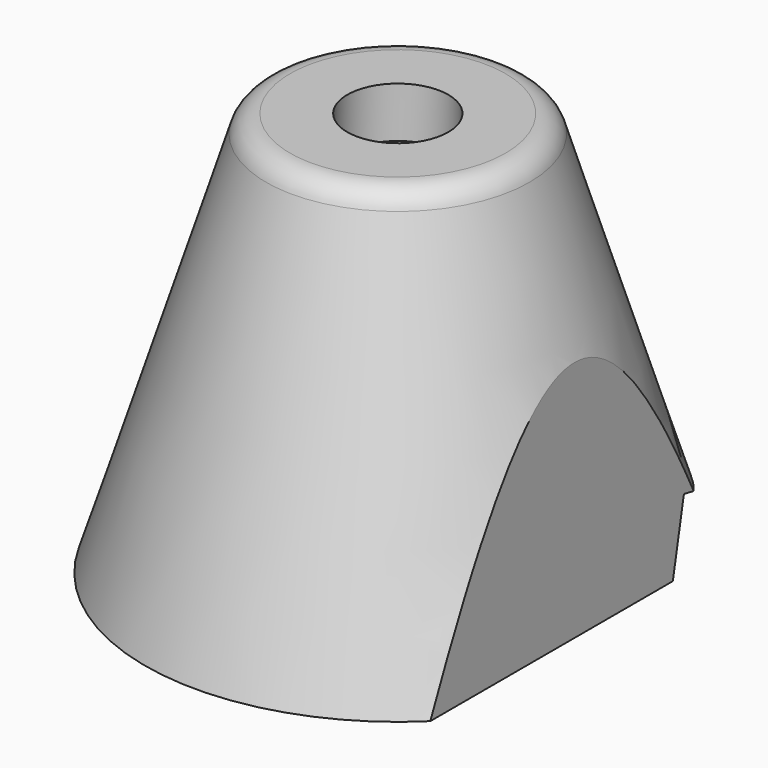
from build123d import *

# Parameters (mm, degrees)
CYLINDER003_R     = 2
CYLINDER003_DEPTH = 16
CYLINDER004_R     = 4
CYLINDER004_DEPTH = 14
BOX001_W          = 30
BOX001_H          = 10
BOX001_DEPTH      = 10
FILLET002_R       = 1
BOX002_W          = 10
BOX002_H          = 30
BOX002_DEPTH      = 20


with BuildPart() as part:
    # Cone → Cone (revolve)
    with BuildSketch(Plane.XZ):
        Polygon((0, 0), (10, 0), (5, 16), (0, 16), align=None)
    revolve(axis=Axis((0, 0, 0), (0, 0, 1)))

    # Cylinder003 → Cylinder003 (cut)
    with BuildSketch(Plane.XY):
        Circle(CYLINDER003_R)
    extrude(amount=CYLINDER003_DEPTH, mode=Mode.SUBTRACT)

    # Cylinder004 → Cylinder004 (cut)
    with BuildSketch(Plane.XY):
        Circle(CYLINDER004_R)
    extrude(amount=CYLINDER004_DEPTH, mode=Mode.SUBTRACT)

    # Box001 → Box001 (cut)
    with BuildSketch(Plane(origin=(-15, 3.5, -7), x_dir=(1, 0, 0), z_dir=(0, 0.190809, 0.981627))):
        with Locations((15, 5)):
            Rectangle(BOX001_W, BOX001_H)
    extrude(amount=BOX001_DEPTH, mode=Mode.SUBTRACT)

    # Fillet002
    fillet002_edges = [part.edges().sort_by_distance(p)[0] for p in [
        (-5, 0, 16),
    ]]
    fillet(fillet002_edges, radius=FILLET002_R)

    # Box002 → Box002 (cut)
    with BuildSketch(Plane(origin=(7, -15, 0), x_dir=(1, 0, 0), z_dir=(0, 0, 1))):
        with Locations((5, 15)):
            Rectangle(BOX002_W, BOX002_H)
    extrude(amount=BOX002_DEPTH, mode=Mode.SUBTRACT)


with BuildPart() as part_1:
    # Body001 placement: moved
    add(part.part.moved(Location((-18, 0, 0))))


solid = part_1.part
